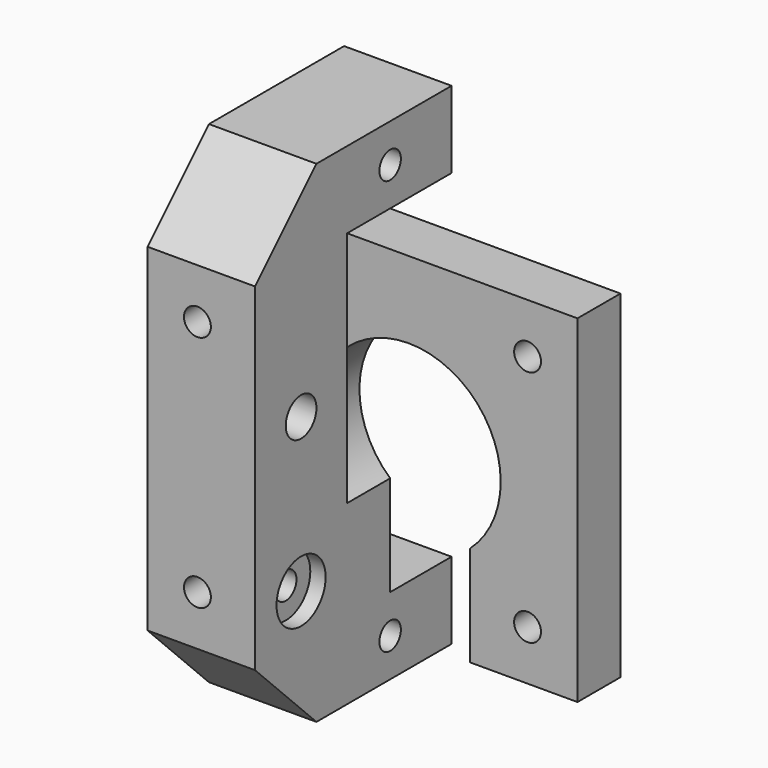
from build123d import *

# Parameters (mm, degrees)
F0_R      = 1.75
F1_DEPTH  = 7
F2_W      = 14
F2_H      = 44
F2_R      = 1.75
F3_DEPTH  = 15
F4_R      = 2.5
F4_R_2    = 1.75
F5_DEPTH  = 25
F6_R      = 4
F7_DEPTH  = 2
F8_W      = 14
F8_H      = 32
F9_DEPTH  = 10
F10_W     = 14
F10_H     = 32
F11_DEPTH = 10
F12_R     = 1.75
F13_DEPTH = 25
F14_SIZE  = 10


with BuildPart() as f1:
    # F0 (on Front) → F1 (new body)
    with BuildSketch(Plane.XZ):
        with BuildLine():
            Line((0, 44), (0, 0))
            Line((0, 0), (14, 0))
            Line((14, 0), (14, 13.055728))
            ThreePointArc((14, 13.055728), (22, 34), (30, 13.055728))
            Line((30, 13.055728), (30, 0))
            Line((30, 0), (44, 0))
            Line((44, 0), (44, 44))
            Line((44, 44), (0, 44))
        make_face()
        with Locations((6.5, 6.5)):
            Circle(F0_R, mode=Mode.SUBTRACT)
        with Locations((37.5, 6.5)):
            Circle(F0_R, mode=Mode.SUBTRACT)
        with Locations((6.5, 37.5)):
            Circle(F0_R, mode=Mode.SUBTRACT)
        with Locations((37.5, 37.5)):
            Circle(F0_R, mode=Mode.SUBTRACT)
    extrude(amount=F1_DEPTH)

    # F2 (on face) → F3 (join)
    with BuildSketch(Plane.XZ.offset(7)):
        with Locations((7, 22)):
            Rectangle(F2_W, F2_H)
        with Locations((6.5, 6.5)):
            Circle(F2_R, mode=Mode.SUBTRACT)
        with Locations((6.5, 37.5)):
            Circle(F2_R, mode=Mode.SUBTRACT)
    extrude(amount=F3_DEPTH)

    # F4 (on face) → F5 (cut)
    with BuildSketch(Plane.YZ.offset(14)):
        with Locations((-14.5, 26)):
            Circle(F4_R)
        with Locations((-14.5, 6)):
            Circle(F4_R_2)
    extrude(amount=-F5_DEPTH, mode=Mode.SUBTRACT)

    # F6 (on face) → F7 (cut)
    with BuildSketch(Plane.YZ.offset(14)):
        with Locations((-14.5, 6)):
            Circle(F6_R)
    extrude(amount=-F7_DEPTH, mode=Mode.SUBTRACT)

    # F8 (on face) → F9 (join)
    with BuildSketch(Plane.XY.offset(44)):
        with Locations((7, -6)):
            Rectangle(F8_W, F8_H)
    extrude(amount=F9_DEPTH)

    # F10 (on face) → F11 (join)
    with BuildSketch(Plane(origin=(0, 0, 0), x_dir=(1, 0, 0), z_dir=(0, 0, -1))):
        with Locations((7, 6)):
            Rectangle(F10_W, F10_H)
    extrude(amount=F11_DEPTH)

    # F12 (on face) → F13 (cut)
    with BuildSketch(Plane.YZ.offset(14)):
        with Locations((0, 49)):
            Circle(F12_R)
        with Locations((0, -5)):
            Circle(F12_R)
    extrude(amount=-F13_DEPTH, mode=Mode.SUBTRACT)

    # F14
    f14_edges = [f1.edges().sort_by_distance(p)[0] for p in [
        (7, -22, 54),
        (7, -22, -10),
    ]]
    chamfer(f14_edges, length=F14_SIZE)


solid = f1.part
